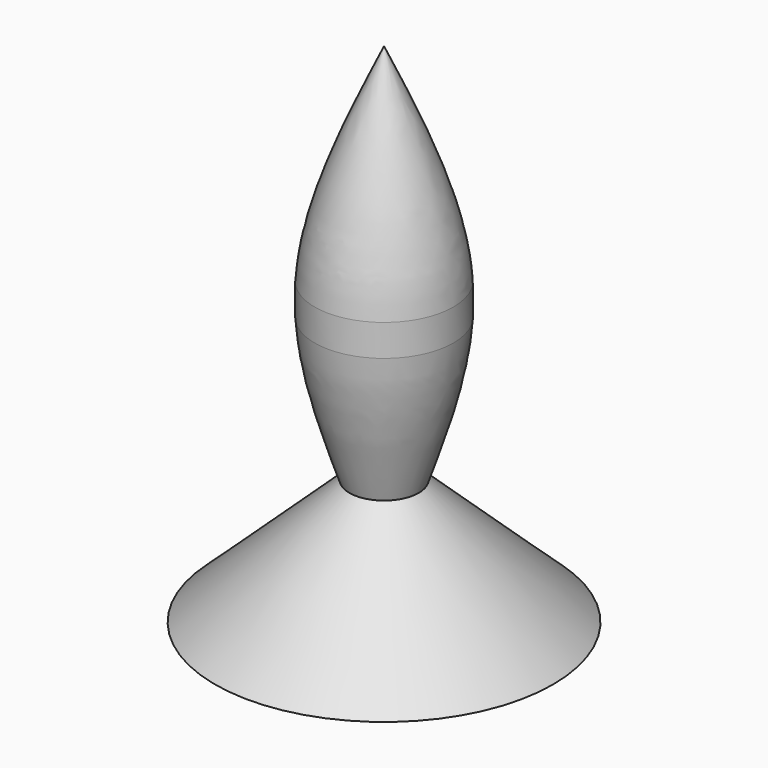
from build123d import *


with BuildPart() as f1:
    # F0 (on Front) → F1 (revolve)
    with BuildSketch(Plane.XZ):
        with BuildLine():
            Line((0, 79.6636343002), (0, 24.7072726488))
            Line((0, 24.7072726488), (5.450495162, 19.6359427267))
            add(Edge.make_bspline(
                [(5.450495162, 19.6359427267), (7.9428517961, 27.0521729218), (10.4352084301, 34.468403117), (10.9009903241, 42.1398195644)],
                knots=[0, 0, 0, 0, 0.3907932174, 0.3907932174, 0.3907932174, 0.3907932174], degree=3))
            Line((10.9009903241, 42.1398195644), (10.9009903241, 47.1141235524))
            add(Edge.make_bspline(
                [(10.9009903241, 47.1141235524), (10.2330087517, 57.5905218645), (5.1165043759, 68.6270780824), (0, 79.6636343002)],
                knots=[0.474618454, 0.474618454, 0.474618454, 0.474618454, 1, 1, 1, 1], degree=3))
        make_face()
        Polygon((0, 24.7072726488), (0, 0), (26.5545472503, 0), (10.9009903241, 14.5646128045), (5.450495162, 19.6359427267), align=None)
    revolve(axis=Axis((0, 0, 52.1854534745), (0, 0, -1)))


solid = f1.part
